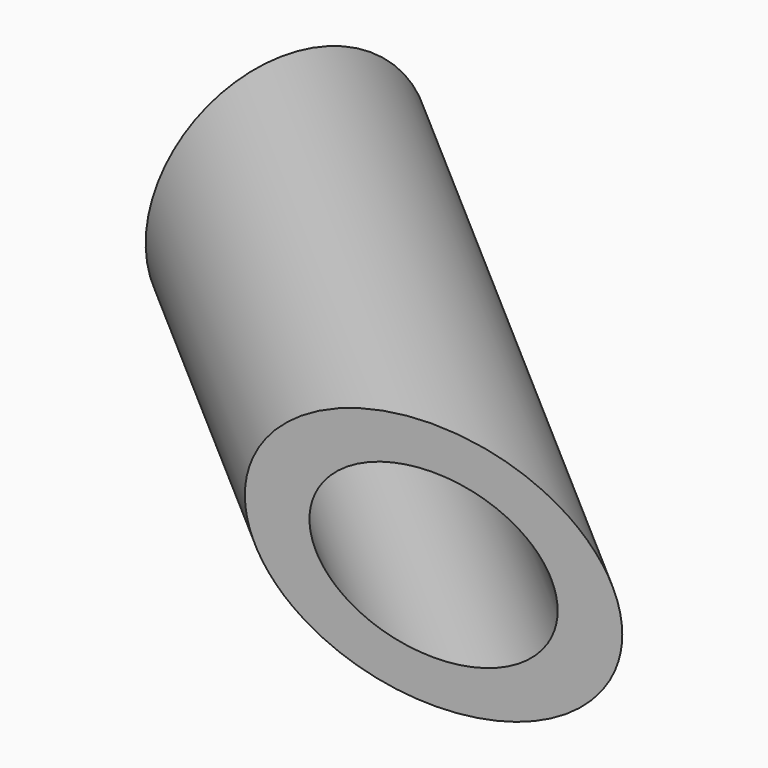
from build123d import *

# Parameters (mm, degrees)
F2_T     = -2
F5_DEPTH = 50


with BuildPart() as f1:
    # F0 (on Top) → F1 (revolve)
    with BuildSketch(Plane.XY):
        Polygon((-25.3351479258, 22.5523764878), (-29.1700512171, 18.1462019682), (18.6146012928, -23.4430542826), (22.4495045841, -19.036879763), align=None)
    revolve(axis=Axis((-5.2777249621, -2.6484261572, 0), (0.754313236, -0.6565146929, 0)))

    # F2
    f2_openings = [f1.faces().sort_by_distance(p)[0] for p in [
        (-29.170051, 18.146202, 0),
        (18.614601, -23.443054, 0),
    ]]
    offset(amount=F2_T, openings=f2_openings)

    # F4 (on offset) → F5 (intersect)
    with BuildSketch(Plane.XY.offset(25)):
        Polygon((-17.0640610158, -8.8143590838), (-10.2202640846, -15.1658570394), (26.4985691756, -15.1658570394), (26.4985691756, 0), (0, 0), (5.9569892474, 13.9789059758), (-9.5655685291, 19.4225348532), align=None)
    extrude(amount=-F5_DEPTH, mode=Mode.INTERSECT)


solid = f1.part
